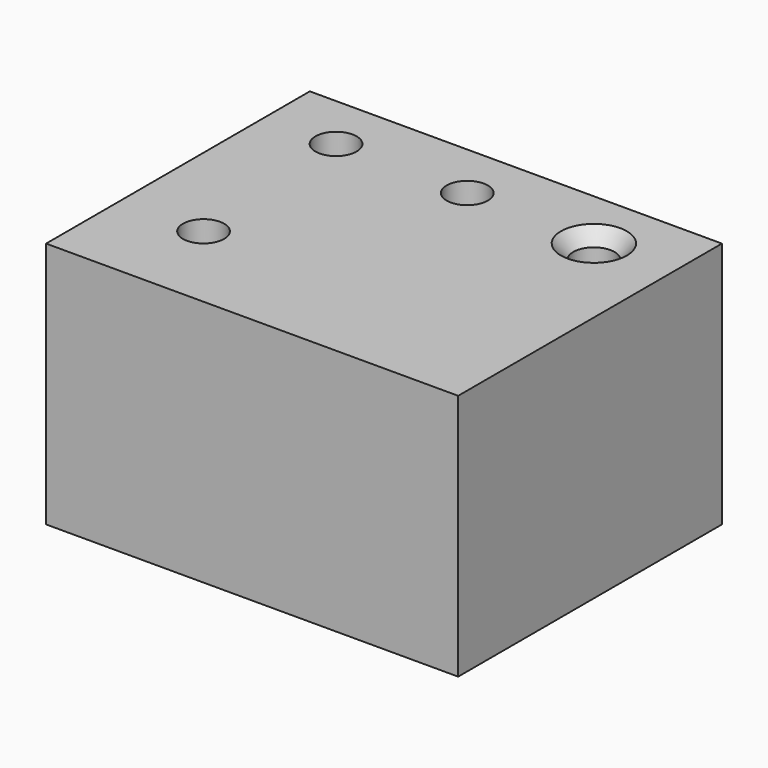
from build123d import *

# Parameters (mm, degrees)
F0_W           = 127
F0_H           = 101.6
F1_DEPTH       = 76.2
F3_D           = 12.7
F4_D           = 12.7
F4_DEPTH       = 12.7
F4_TIP         = 3.8154649308
F5_D           = 12.7
F5_CSINK_D     = 20.32
F5_CSINK_ANGLE = 82
F6_R           = 6.35
F7_DEPTH       = 25.4


with BuildPart() as f1:
    # F0 (on Top) → F1 (new body)
    with BuildSketch(Plane.XY):
        with Locations((8.4503423423, 0.4407010946)):
            Rectangle(F0_W, F0_H)
    extrude(amount=F1_DEPTH)

    # F3 (through all)
    with Locations(Plane.XY.offset(76.2)):
        with Locations((-32.9967327416, 33.7764918804)):
            Hole(F3_D / 2)

    # F4
    with Locations(Plane.XY.offset(76.2)):
        with Locations((7.6293125749, 33.5257202387)):
            Hole(F4_D / 2, depth=F4_DEPTH)
            with Locations((0, 0, -(F4_DEPTH + F4_TIP / 2))):  # 118° drill point
                Cone(0, F4_D / 2, F4_TIP, mode=Mode.SUBTRACT)

    # F5 (through all)
    with Locations(Plane.XY.offset(76.2)):
        with Locations((47.8257350624, 32.076139003)):
            CounterSinkHole(F5_D / 2, F5_CSINK_D / 2, counter_sink_angle=F5_CSINK_ANGLE)

    # F6 (on face) → F7 (cut)
    with BuildSketch(Plane.XY.offset(76.2)):
        with Locations((-29.4474586844, -21.6974113137)):
            Circle(F6_R)
    extrude(amount=-F7_DEPTH, mode=Mode.SUBTRACT)


solid = f1.part
